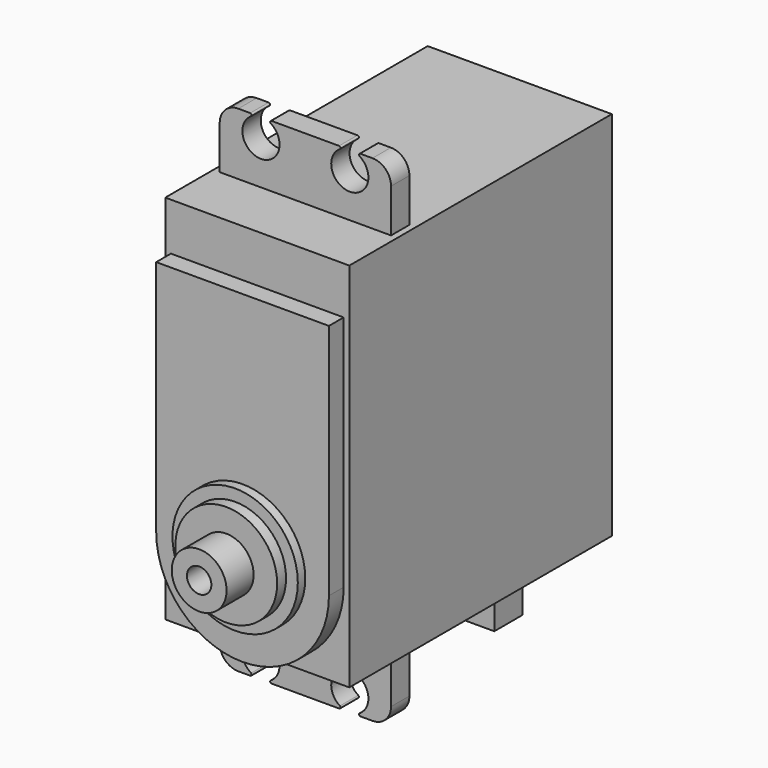
from build123d import *

# Parameters (mm, degrees)
F0_W      = 19.81
F0_H      = 39.97
F1_DEPTH  = 8.94
F3_W      = 18.44
F3_H      = 2.47
F4_DEPTH  = 6.67
F2_W      = 18.44
F2_H      = 2.47
F5_DEPTH  = 6.67
F6_DEPTH  = 20.14
F8_DEPTH  = 1.98
F9_R      = 6.745
F10_DEPTH = 1
F11_R     = 5.48
F12_DEPTH = 1.2
F13_R     = 2.95
F14_DEPTH = 3.64
F15_R     = 1.315
F16_DEPTH = 8
F17_DEPTH = 6.23
F18_W     = 7.15
F18_H     = 3.8
F19_DEPTH = 8
F22_DEPTH = 5
F23_R     = 0.15
F24_R     = 2


with BuildPart() as f1:
    # F0 (on Front) → F1 (new body)
    with BuildSketch(Plane.XZ):
        Rectangle(F0_W, F0_H)
    extrude(amount=F1_DEPTH)

    # F3 (on face) → F4 (join)
    with BuildSketch(Plane(origin=(0, 0, -19.985), x_dir=(1, 0, 0), z_dir=(0, 0, -1))):
        with Locations((0, 1.235)):
            Rectangle(F3_W, F3_H)
    extrude(amount=F4_DEPTH)

    # F2 (on face) → F5 (join)
    with BuildSketch(Plane.XY.offset(19.985)):
        with Locations((0, -1.235)):
            Rectangle(F2_W, F2_H)
    extrude(amount=F5_DEPTH)

    # F0 (on Front) → F6 (join)
    with BuildSketch(Plane.XZ):
        Rectangle(F0_W, F0_H)
    extrude(amount=-F6_DEPTH)

    # F7 (on face) → F8 (join)
    with BuildSketch(Plane.XZ.offset(8.94)):
        with BuildLine():
            Line((0, -1.395), (-9.295, -1.395))
            Line((-9.295, -1.395), (-6.5725575311, -4.1174424689))
            ThreePointArc((-6.5725575311, -4.1174424689), (-3.5570425038, -2.1025397453), (0, -1.395))
        make_face()
        with BuildLine():
            Line((6.5725575311, -4.1174424689), (9.295, -1.395))
            Line((9.295, -1.395), (0, -1.395))
            ThreePointArc((0, -1.395), (3.5570425038, -2.1025397453), (6.5725575311, -4.1174424689))
        make_face()
        with BuildLine():
            Line((9.295, -10.69), (9.295, -1.395))
            Line((9.295, -1.395), (6.5725575311, -4.1174424689))
            ThreePointArc((6.5725575311, -4.1174424689), (8.5874602547, -7.1329574962), (9.295, -10.69))
        make_face()
        with BuildLine():
            ThreePointArc((-6.5725575311, -4.1174424689), (-8.5874602547, -7.1329574962), (-9.295, -10.69))
            Line((-9.295, -10.69), (0, -10.69))
            Line((0, -10.69), (-6.5725575311, -4.1174424689))
        make_face()
        with BuildLine():
            Line((0, -10.69), (-9.295, -10.69))
            ThreePointArc((-9.295, -10.69), (-8.5874602547, -14.2470425038), (-6.5725575311, -17.2625575311))
            Line((-6.5725575311, -17.2625575311), (0, -10.69))
        make_face()
        with BuildLine():
            Line((0, -19.985), (0, -10.69))
            Line((0, -10.69), (-6.5725575311, -17.2625575311))
            ThreePointArc((-6.5725575311, -17.2625575311), (-3.5570425038, -19.2774602547), (0, -19.985))
        make_face()
        with BuildLine():
            Line((6.5725575311, -17.2625575311), (0, -10.69))
            Line((0, -10.69), (0, -19.985))
            ThreePointArc((0, -19.985), (3.5570425038, -19.2774602547), (6.5725575311, -17.2625575311))
        make_face()
        with BuildLine():
            ThreePointArc((6.5725575311, -17.2625575311), (8.5874602547, -14.2470425038), (9.295, -10.69))
            Line((9.295, -10.69), (0, -10.69))
            Line((0, -10.69), (6.5725575311, -17.2625575311))
        make_face()
        with BuildLine():
            Line((0, -10.69), (9.295, -10.69))
            ThreePointArc((9.295, -10.69), (8.5874602547, -7.1329574962), (6.5725575311, -4.1174424689))
            Line((6.5725575311, -4.1174424689), (0, -10.69))
        make_face()
        with BuildLine():
            ThreePointArc((6.5725575311, -4.1174424689), (3.5570425038, -2.1025397453), (0, -1.395))
            ThreePointArc((0, -1.395), (-3.5570425038, -2.1025397453), (-6.5725575311, -4.1174424689))
            Line((-6.5725575311, -4.1174424689), (0, -10.69))
            Line((0, -10.69), (6.5725575311, -4.1174424689))
        make_face()
        Polygon((9.295, 14.875), (-9.295, 14.875), (-9.295, -1.395), (0, -1.395), (9.295, -1.395), align=None)
        with BuildLine():
            Line((-6.5725575311, -4.1174424689), (-9.295, -1.395))
            Line((-9.295, -1.395), (-9.295, -10.69))
            ThreePointArc((-9.295, -10.69), (-8.5874602547, -7.1329574962), (-6.5725575311, -4.1174424689))
        make_face()
    extrude(amount=F8_DEPTH)

    # F9 (on face) → F10 (join)
    with BuildSketch(Plane.XZ.offset(10.92)):
        with Locations((0, -9.88)):
            Circle(F9_R)
    extrude(amount=F10_DEPTH)

    # F11 (on face) → F12 (join)
    with BuildSketch(Plane.XZ.offset(11.92)):
        with Locations((0, -9.88)):
            Circle(F11_R)
    extrude(amount=F12_DEPTH)

    # F13 (on face) → F14 (join)
    with BuildSketch(Plane.XZ.offset(13.12)):
        with Locations((0, -9.88)):
            Circle(F13_R)
    extrude(amount=F14_DEPTH)

    # F15 (on face) → F16 (cut)
    with BuildSketch(Plane.XZ.offset(16.76)):
        with Locations((0, -9.88)):
            Circle(F15_R)
    extrude(amount=-F16_DEPTH, mode=Mode.SUBTRACT)

    # F17 (add): a face of the model
    f17_faces = [f1.faces().sort_by_distance(p)[0] for p in [
        (0, 20.14, 0),
    ]]
    extrude(f17_faces, amount=F17_DEPTH)

    # F18 (on face) → F19 (join)
    with BuildSketch(Plane(origin=(0, 0, -19.985), x_dir=(1, 0, 0), z_dir=(0, 0, -1))):
        with Locations((-0.14, -20.55)):
            Rectangle(F18_W, F18_H)
    extrude(amount=F19_DEPTH)

    # F20 (on face) + F21 (on face) → F22 (cut)
    with BuildSketch(Plane.XZ.offset(2.47)):
        with BuildLine():
            Line((5.1251086785, 26.655), (4.4348913215, 26.655))
            ThreePointArc((4.4348913215, 26.655), (3.4935742068, 23.1536252325), (6.78, 24.685))
            ThreePointArc((6.78, 24.685), (6.3113747675, 25.9714257932), (5.1251086785, 26.655))
        make_face()
        with BuildLine():
            ThreePointArc((-5.1251086785, 26.655), (-6.0664257932, 23.1536252325), (-2.78, 24.685))
            ThreePointArc((-2.78, 24.685), (-3.2486252325, 25.9714257932), (-4.4348913215, 26.655))
            Line((-4.4348913215, 26.655), (-5.1251086785, 26.655))
        make_face()
    with BuildSketch(Plane.XZ.offset(2.47)):
        with BuildLine():
            ThreePointArc((6.78, -24.685), (3.4935742068, -23.1536252325), (4.4348913215, -26.655))
            Line((4.4348913215, -26.655), (5.1251086785, -26.655))
            ThreePointArc((5.1251086785, -26.655), (6.3113747675, -25.9714257932), (6.78, -24.685))
        make_face()
        with BuildLine():
            ThreePointArc((-4.4348913215, -26.655), (-3.2486252325, -25.9714257932), (-2.78, -24.685))
            ThreePointArc((-2.78, -24.685), (-6.0664257932, -23.1536252325), (-5.1251086785, -26.655))
            Line((-5.1251086785, -26.655), (-4.4348913215, -26.655))
        make_face()
    extrude(amount=-F22_DEPTH, mode=Mode.SUBTRACT)

    # F23
    f23_edges = [f1.edges().sort_by_distance(p)[0] for p in [
        (-5.125109, -1.235, -26.655),
        (-4.434891, -1.235, -26.655),
        (4.434891, -1.235, -26.655),
        (5.125109, -1.235, -26.655),
        (5.125109, -1.235, 26.655),
        (-4.434891, -1.235, 26.655),
        (-5.125109, -1.235, 26.655),
        (4.434891, -1.235, 26.655),
    ]]
    fillet(f23_edges, radius=F23_R)

    # F24
    f24_edges = [f1.edges().sort_by_distance(p)[0] for p in [
        (9.22, -1.235, 26.655),
        (-9.22, -1.235, 26.655),
        (-9.22, -1.235, -26.655),
        (9.22, -1.235, -26.655),
    ]]
    fillet(f24_edges, radius=F24_R)


solid = f1.part
